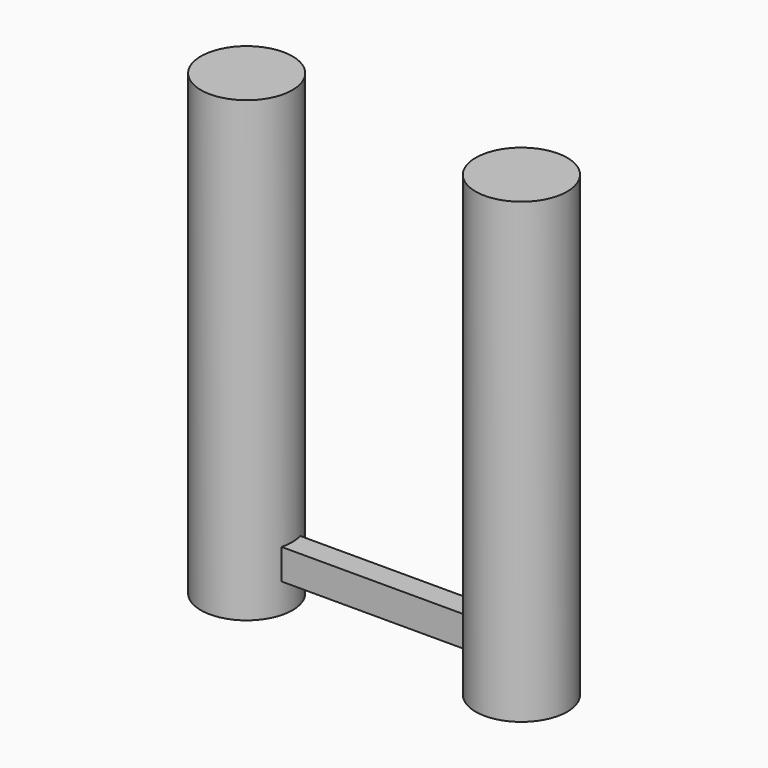
from build123d import *

# Parameters (mm, degrees)
F1_W     = 13.079472
F1_H     = 16.876735
F2_DEPTH = 76.2
F0_R     = 25.4
F3_DEPTH = 254


with BuildPart() as f2:
    # F1 (on Right) → F2 (new body, symmetric)
    with BuildSketch(Plane.YZ):
        with Locations((6e-06, 24.893183)):
            Rectangle(F1_W, F1_H)
    extrude(amount=F2_DEPTH, both=True)

    # F0 (on Top) → F3 (join)
    with BuildSketch(Plane.XY):
        with Locations((-76.2, 0)):
            Circle(F0_R)
        with Locations((76.2, 0)):
            Circle(F0_R)
    extrude(amount=F3_DEPTH)


solid = f2.part
